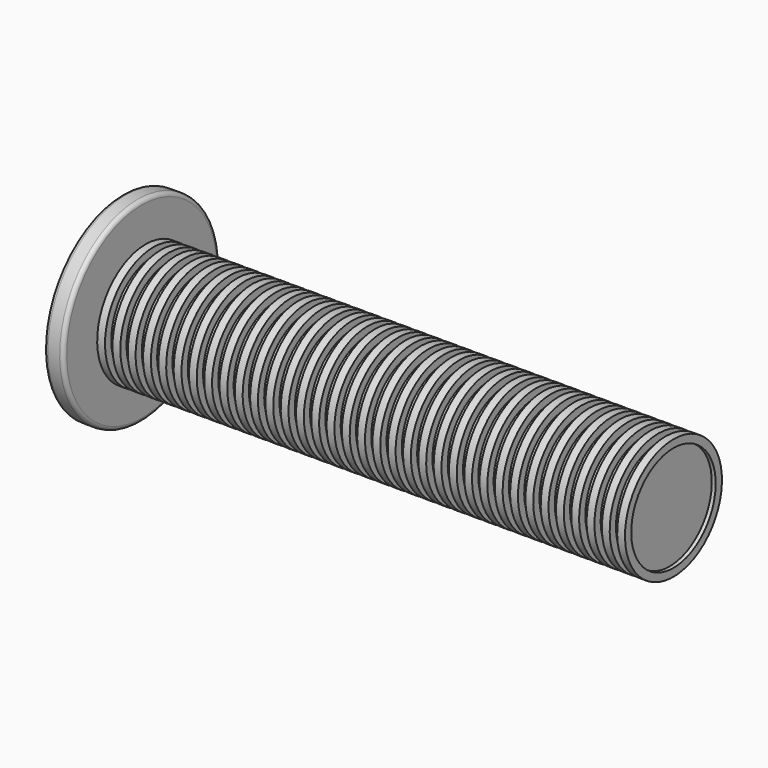
from build123d import *

# Parameters (mm, degrees)
FILLET_R            = 1
SKETCH001_R         = 15.5
SKETCH001_R_2       = 13.5
PAD_DEPTH           = 1
LINEARPATTERN_COUNT = 35
LINEARPATTERN_PITCH = 3.911765


with BuildPart() as part:
    # Sketch → Revolution (revolve)
    with BuildSketch(Plane.XZ):
        Polygon((140, 0), (137, 0), (137, 10.5), (0, 10.5), (0, 25), (5, 25), (5, 13.5), (140, 13.5), align=None)
    revolve(axis=Axis((0, 0, 0), (1, 0, 0)))

    # Fillet
    fillet_edges = [part.edges().sort_by_distance(p)[0] for p in [
        (0, 0, -25),
        (5, 0, -25),
        (2.5, 0, 25),
    ]]
    fillet(fillet_edges, radius=FILLET_R)

    # Sketch001 (on Face9 of Fillet) → Pad (new body, symmetric)
    with BuildSketch(Plane(origin=(140, 0, 0), x_dir=(0, 0, 1), z_dir=(1, 0, 0))):
        Circle(SKETCH001_R)
        Circle(SKETCH001_R_2, mode=Mode.SUBTRACT)
    pad = extrude(amount=PAD_DEPTH, both=True)

    # LinearPattern: Pad ×35
    with Locations(*[(-i * LINEARPATTERN_PITCH, 0, 0) for i in range(1, LINEARPATTERN_COUNT)]):
        add(pad)


solid = part.part
